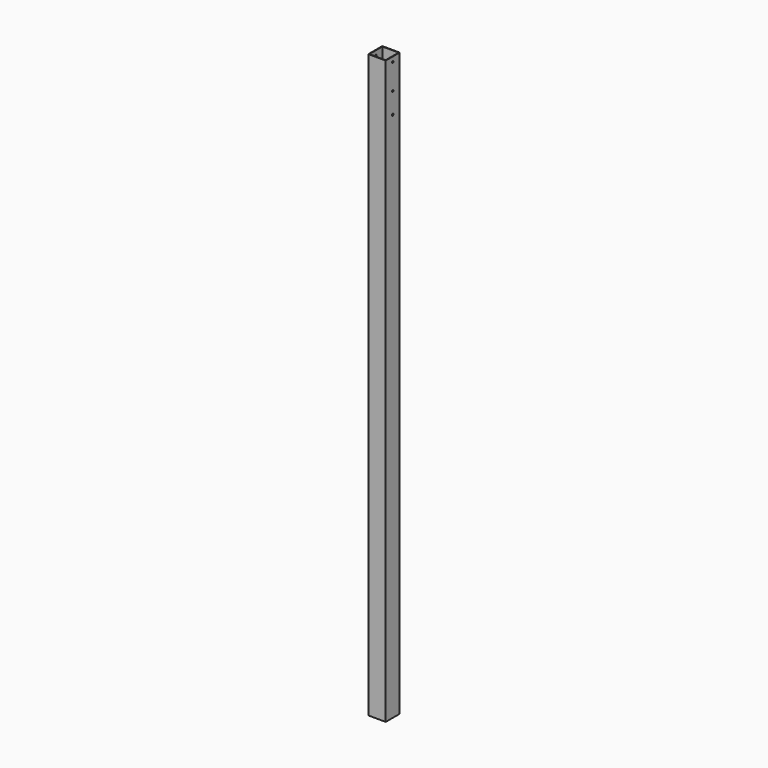
from build123d import *

# Parameters (mm, degrees)
F0_W     = 75
F0_H     = 75
F0_W_2   = 70
F0_H_2   = 70
F1_DEPTH = 1250
F2_R     = 4
F3_DEPTH = 38


with BuildPart() as f1:
    # F0 (on Top) → F1 (new body, symmetric)
    with BuildSketch(Plane.XY):
        Rectangle(F0_W, F0_H)
        Rectangle(F0_W_2, F0_H_2, mode=Mode.SUBTRACT)
    extrude(amount=F1_DEPTH, both=True)

    # F2 (on Right) → F3 (cut, symmetric)
    with BuildSketch(Plane.YZ):
        with Locations((0, 1230)):
            Circle(F2_R)
        with Locations((0, 1120)):
            Circle(F2_R)
        with Locations((0, 1030)):
            Circle(F2_R)
    extrude(amount=F3_DEPTH, both=True, mode=Mode.SUBTRACT)


solid = f1.part
